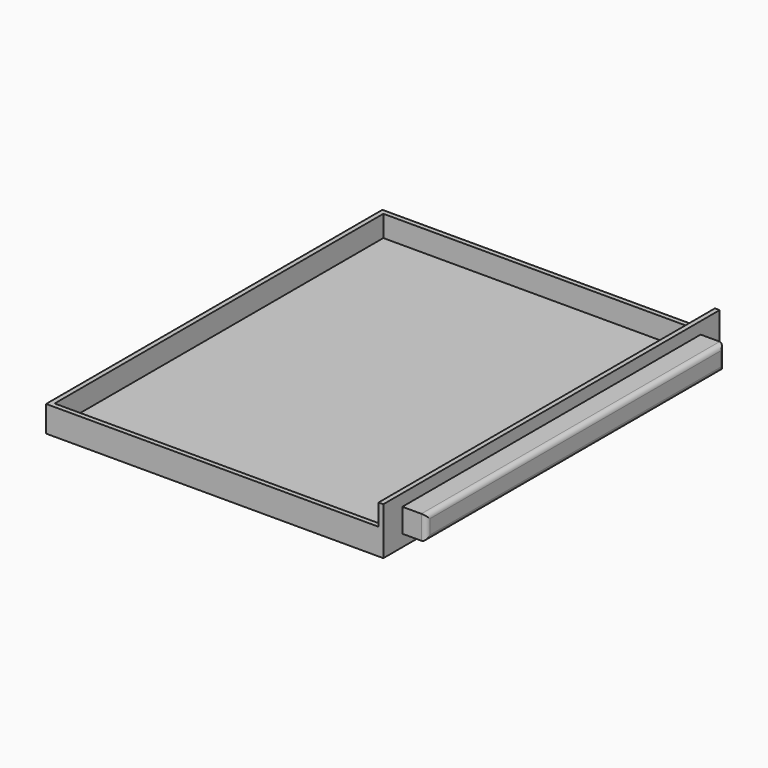
from build123d import *

# Parameters (mm, degrees)
F0_W     = 142
F0_H     = 177
F1_DEPTH = 20
F2_W     = 138
F2_H     = 173
F3_DEPTH = 18
F4_DEPTH = 9
F5_W     = 157
F5_H     = 10
F6_DEPTH = 10
F7_R     = 2


with BuildPart() as f1:
    # F0 (on Top) → F1 (new body)
    with BuildSketch(Plane.XY):
        with Locations((10.088578, 15.472607)):
            Rectangle(F0_W, F0_H)
    extrude(amount=F1_DEPTH)

    # F2 (on face) → F3 (cut)
    with BuildSketch(Plane.XY.offset(20)):
        with Locations((10.088578, 15.472607)):
            Rectangle(F2_W, F2_H)
    extrude(amount=-F3_DEPTH, mode=Mode.SUBTRACT)

    # F2 (on face) → F4 (cut)
    with BuildSketch(Plane.XY.offset(20)):
        Polygon((-60.911422, -73.027393), (79.088578, -73.027393), (79.088578, -71.027393), (-58.911422, -71.027393), (-58.911422, 101.972607), (79.088578, 101.972607), (79.088578, 103.972607), (-60.911422, 103.972607), align=None)
    extrude(amount=-F4_DEPTH, mode=Mode.SUBTRACT)

    # F5 (on face) → F6 (join)
    with BuildSketch(Plane.YZ.offset(81.088578)):
        with Locations((15.472607, 10)):
            Rectangle(F5_W, F5_H)
    extrude(amount=F6_DEPTH)

    # F7
    f7_edges = [f1.edges().sort_by_distance(p)[0] for p in [
        (91.088578, 15.472607, 15),
        (91.088578, 15.472607, 5),
        (91.088578, -63.027393, 10),
        (91.088578, 93.972607, 10),
    ]]
    fillet(f7_edges, radius=F7_R)


solid = f1.part
